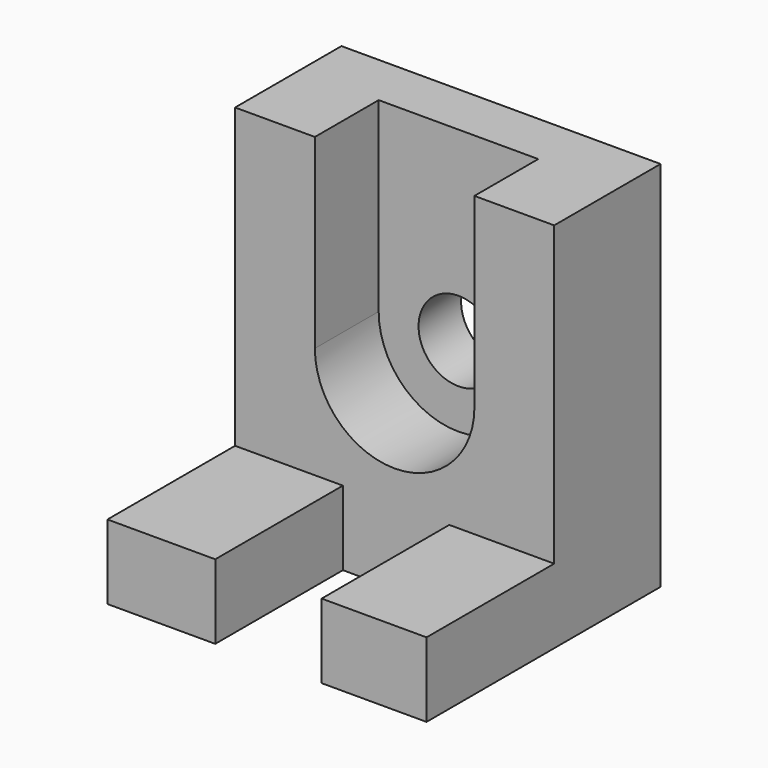
from build123d import *

# Parameters (mm, degrees)
F0_W      = 60
F0_H      = 70
F1_DEPTH  = 25
F3_DEPTH  = 15
F4_R      = 7.5
F5_DEPTH  = 25
F5_FACE_R = 7.5
F6_DEPTH  = 25.001
F7_W      = 19.729286
F7_H      = 14
F7_W_2    = 20.270714
F8_DEPTH  = 30


with BuildPart() as f1:
    # F0 (on Front) → F1 (new body)
    with BuildSketch(Plane.XZ):
        Rectangle(F0_W, F0_H)
    extrude(amount=F1_DEPTH)

    # F2 (on face) → F3 (cut)
    with BuildSketch(Plane.XZ.offset(25)):
        with BuildLine():
            Line((-15, 35), (-15, 0))
            ThreePointArc((-15, 0), (0, -15), (15, 0))
            Line((15, 0), (15, 35))
            Line((15, 35), (-15, 35))
        make_face()
    extrude(amount=-F3_DEPTH, mode=Mode.SUBTRACT)

    # F4 (on Front) → F5 (join)
    with BuildSketch(Plane.XZ):
        Circle(F4_R)
    extrude(amount=F5_DEPTH)

    # F5_face (on face) → F6 (cut, through all)
    with BuildSketch(Plane.XZ.offset(25)):
        Circle(F5_FACE_R)
    extrude(amount=-F6_DEPTH, mode=Mode.SUBTRACT)

    # F7 (on face) → F8 (join)
    with BuildSketch(Plane.XZ.offset(25)):
        with Locations((20.135357, -28)):
            Rectangle(F7_W, F7_H)
        with Locations((-19.864643, -28)):
            Rectangle(F7_W_2, F7_H)
    extrude(amount=F8_DEPTH)


solid = f1.part
